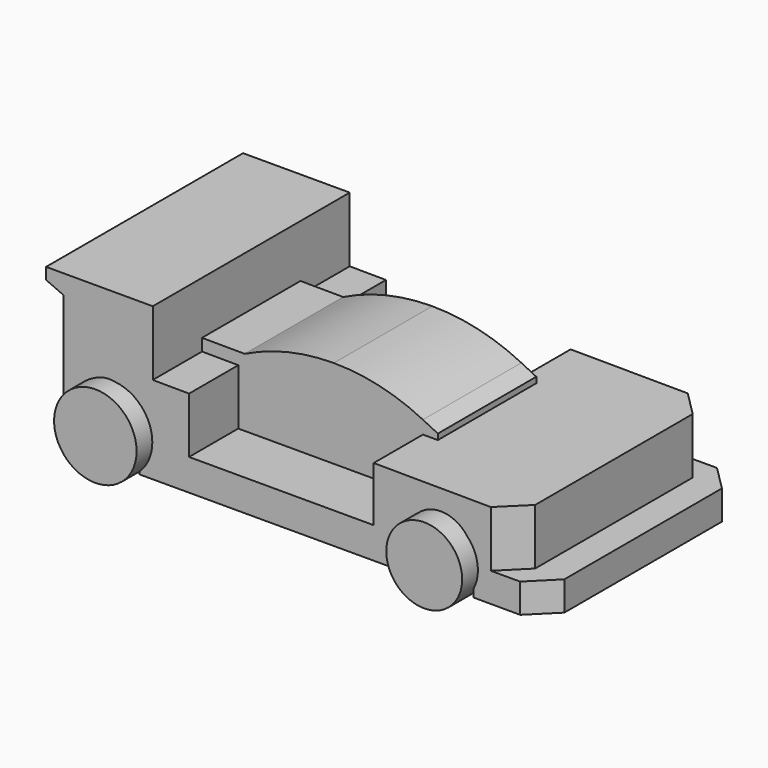
from build123d import *

# Parameters (mm, degrees)
F1_DEPTH = 25.4
F2_DEPTH = 12.7
F3_SIZE  = 5.08
F4_R     = 8.5094
F4_R_2   = 7.830617
F5_DEPTH = 29.464


with BuildPart() as f1:
    # F0 (on Front) → F1 (new body, symmetric)
    with BuildSketch(Plane.XZ):
        with BuildLine():
            Line((-28.034671, -4.311011), (-28.034671, -14.077194))
            Line((-28.034671, -14.077194), (27.299206, -14.022477))
            Line((27.299206, -14.022477), (27.299206, -7.378203))
            ThreePointArc((27.299206, -7.378203), (34.129328, -0.548081), (40.95945, -7.378203))
            Line((40.95945, -7.378203), (40.95945, -14.022477))
            Line((40.95945, -14.022477), (55.595427, -14.055348))
            Line((55.595427, -14.055348), (55.595427, -8.005464))
            Line((55.595427, -8.005464), (49.564611, -8.005464))
            Line((49.564611, -8.005464), (49.564611, 3.545878))
            Line((49.564611, 3.545878), (20.311819, 3.713833))
            Line((20.311819, 3.713833), (20.311819, -7.577809))
            Line((20.311819, -7.577809), (-17.788181, -7.57786))
            Line((-17.788181, -7.57786), (-17.788197, 3.932584))
            Line((-17.788197, 3.932584), (-25.274342, 3.975565))
            Line((-25.274342, 3.975565), (-25.274342, 6.474282))
            Line((-25.274342, 6.474282), (-25.274342, 17.366793))
            Line((-25.274342, 17.366793), (-47.289753, 17.366793))
            Line((-47.289753, 17.366793), (-47.289753, 14.9899))
            Line((-47.289753, 14.9899), (-43.719519, 13.406432))
            Line((-43.719519, 13.406432), (-43.719519, -6.054001))
            Line((-43.719519, -6.054001), (-40.48594, -6.054001))
            Line((-40.48594, -6.054001), (-40.48594, -4.311011))
            ThreePointArc((-40.48594, -4.311011), (-34.260305, 1.219482), (-28.034671, -4.311011))
        make_face()
    extrude(amount=F1_DEPTH, both=True)

    # F0 (on Front) → F2 (join, symmetric)
    with BuildSketch(Plane.XZ):
        Polygon((20.311819, -7.577809), (20.311819, 3.713833), (1.920144, 3.819428), (-16.471527, 3.925024), (-17.788197, 3.932584), (-17.788181, -7.57786), align=None)
        with BuildLine():
            Line((-16.471527, 3.925024), (1.920144, 3.819428))
            Line((1.920144, 3.819428), (1.920144, 10.733619))
            ThreePointArc((1.920144, 10.733619), (-7.524811, 9.64175), (-16.47153, 6.42374))
            Line((-16.47153, 6.42374), (-16.471527, 3.925024))
        make_face()
        Polygon((-16.47153, 6.42374), (-25.274342, 6.474282), (-25.274342, 3.975565), (-17.788197, 3.932584), (-16.471527, 3.925024), align=None)
        with BuildLine():
            Line((1.920144, 3.819428), (20.311819, 3.713833))
            Line((20.311819, 3.713833), (20.311819, 6.42374))
            ThreePointArc((20.311819, 6.42374), (11.3651, 9.64175), (1.920144, 10.733619))
            Line((1.920144, 10.733619), (1.920144, 3.819428))
        make_face()
        with BuildLine():
            Line((1.920144, 3.819428), (20.311819, 3.713833))
            Line((20.311819, 3.713833), (20.311819, 6.42374))
            ThreePointArc((20.311819, 6.42374), (11.3651, 9.64175), (1.920144, 10.733619))
            Line((1.920144, 10.733619), (1.920144, 3.819428))
        make_face()
        Polygon((20.311819, 6.42374), (20.311819, 3.713833), (23.388268, 3.713833), (23.387096, 4.89868), align=None)
    extrude(amount=F2_DEPTH, both=True)

    # F3
    f3_edges = [f1.edges().sort_by_distance(p)[0] for p in [
        (49.564611, 25.4, -2.229793),
        (55.595427, 25.4, -11.030406),
        (49.564611, -25.4, -2.229793),
        (55.595427, -25.4, -11.030406),
    ]]
    chamfer(f3_edges, length=F3_SIZE)

    # F4 (on Front) → F5 (join, symmetric)
    with BuildSketch(Plane.XZ):
        with Locations((-33.875754, -7.361865)):
            Circle(F4_R)
        with Locations((33.989035, -8.773327)):
            Circle(F4_R_2)
    extrude(amount=F5_DEPTH, both=True)


solid = f1.part
